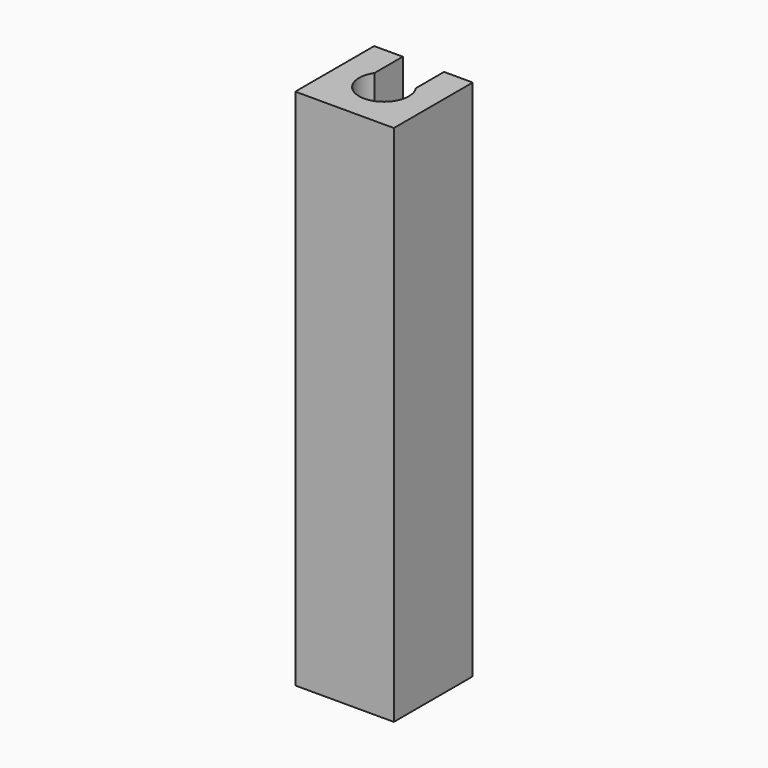
from build123d import *

# Parameters (mm, degrees)
F1_DEPTH = 21


with BuildPart() as f1:
    # F0 (on Top) → F1 (new body)
    with BuildSketch(Plane.XY):
        with BuildLine():
            Line((1.979899, -1.979899), (1.979899, 1.979899))
            Line((1.979899, 1.979899), (0.828367, 1.979899))
            Line((0.828367, 1.979899), (0.828367, 0.560186))
            ThreePointArc((0.828367, 0.560186), (0, -1), (-0.828367, 0.560186))
            Line((-0.828367, 0.560186), (-0.828367, 1.979899))
            Line((-0.828367, 1.979899), (-1.979899, 1.979899))
            Line((-1.979899, 1.979899), (-1.979899, -1.979899))
            Line((-1.979899, -1.979899), (1.979899, -1.979899))
        make_face()
    extrude(amount=F1_DEPTH)


solid = f1.part
